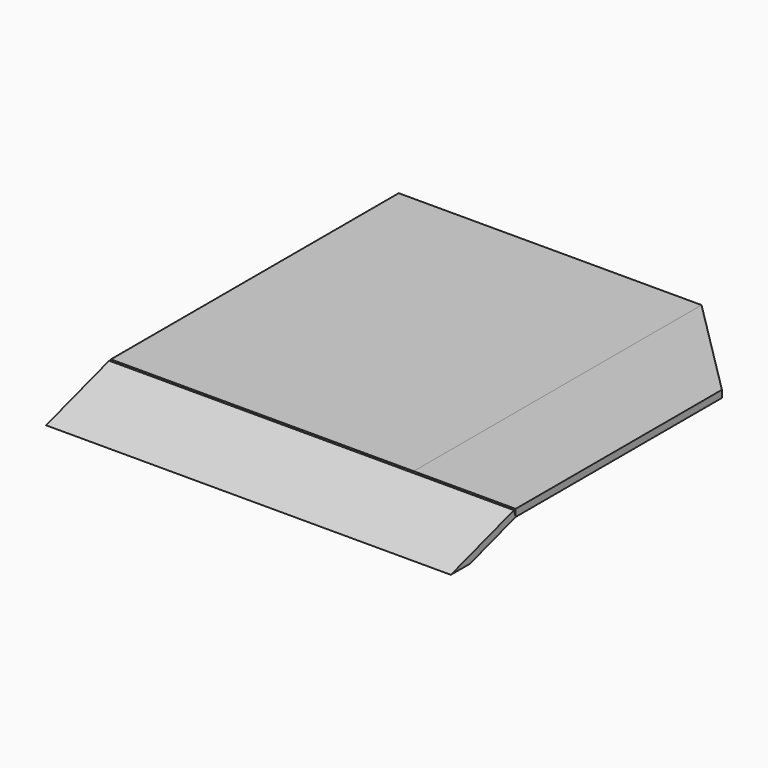
from build123d import *

# Parameters (mm, degrees)
F0_W     = 1010
F0_H     = 1200
F1_DEPTH = 24
F3_DEPTH = 1350
F5_DEPTH = 24


with BuildPart() as f1:
    # F0 (on Top) → F1 (new body)
    with BuildSketch(Plane.XY):
        with Locations((505, -600)):
            Rectangle(F0_W, F0_H)
    extrude(amount=-F1_DEPTH)


with BuildPart() as f3:
    # F2 (on Right) → F3 (new body)
    with BuildSketch(Plane.YZ):
        Polygon((-1390.295688, -84), (-1200, -24), (-1207.216939, -1.110793), (-1470.107917, -84), align=None)
    extrude(amount=F3_DEPTH)


with BuildPart() as f5:
    # F4 (on Top) → F5 (new body)
    with BuildSketch(Plane.XY):
        Polygon((1350, -340), (1010, 0), (1010, -1200), (1350, -1200), align=None)
    extrude(amount=-F5_DEPTH)


solid = Compound([f1.part, f3.part, f5.part])
